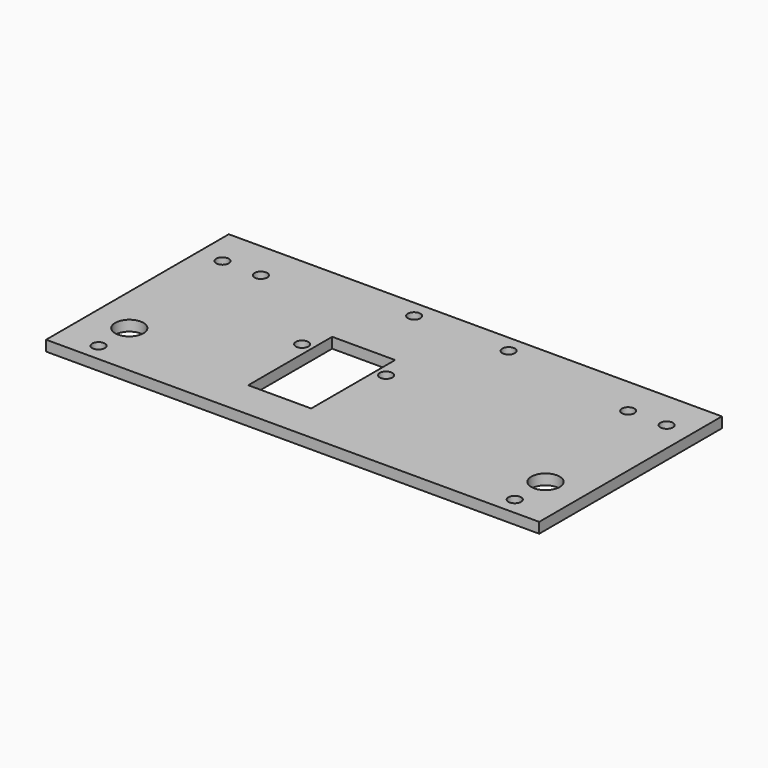
from build123d import *

# Parameters (mm, degrees)
SKETCH_W   = 141
SKETCH_H   = 65.3
SKETCH_R   = 4.05
SKETCH_R_2 = 1.8
SKETCH_W_2 = 18
SKETCH_H_2 = 30
PAD_DEPTH  = 3


with BuildPart() as part:
    # Sketch → Pad (new body)
    with BuildSketch(Plane.XY):
        with Locations((-70.5, 32.65)):
            Rectangle(SKETCH_W, SKETCH_H)
        with Locations((-130, 16)):
            Circle(SKETCH_R, mode=Mode.SUBTRACT)
        with Locations((-11, 16)):
            Circle(SKETCH_R, mode=Mode.SUBTRACT)
        with Locations((-134, 54.3)):
            Circle(SKETCH_R_2, mode=Mode.SUBTRACT)
        with Locations((-123, 54.3)):
            Circle(SKETCH_R_2, mode=Mode.SUBTRACT)
        with Locations((-18, 54.3)):
            Circle(SKETCH_R_2, mode=Mode.SUBTRACT)
        with Locations((-7, 54.3)):
            Circle(SKETCH_R_2, mode=Mode.SUBTRACT)
        with Locations((-84, 60.3)):
            Circle(SKETCH_R_2, mode=Mode.SUBTRACT)
        with Locations((-57, 60.3)):
            Circle(SKETCH_R_2, mode=Mode.SUBTRACT)
        with Locations((-95, 34)):
            Circle(SKETCH_R_2, mode=Mode.SUBTRACT)
        with Locations((-71, 34)):
            Circle(SKETCH_R_2, mode=Mode.SUBTRACT)
        with Locations((-130, 5)):
            Circle(SKETCH_R_2, mode=Mode.SUBTRACT)
        with Locations((-11, 5)):
            Circle(SKETCH_R_2, mode=Mode.SUBTRACT)
        with Locations((-83, 26)):
            Rectangle(SKETCH_W_2, SKETCH_H_2, mode=Mode.SUBTRACT)
    extrude(amount=PAD_DEPTH)


solid = part.part
